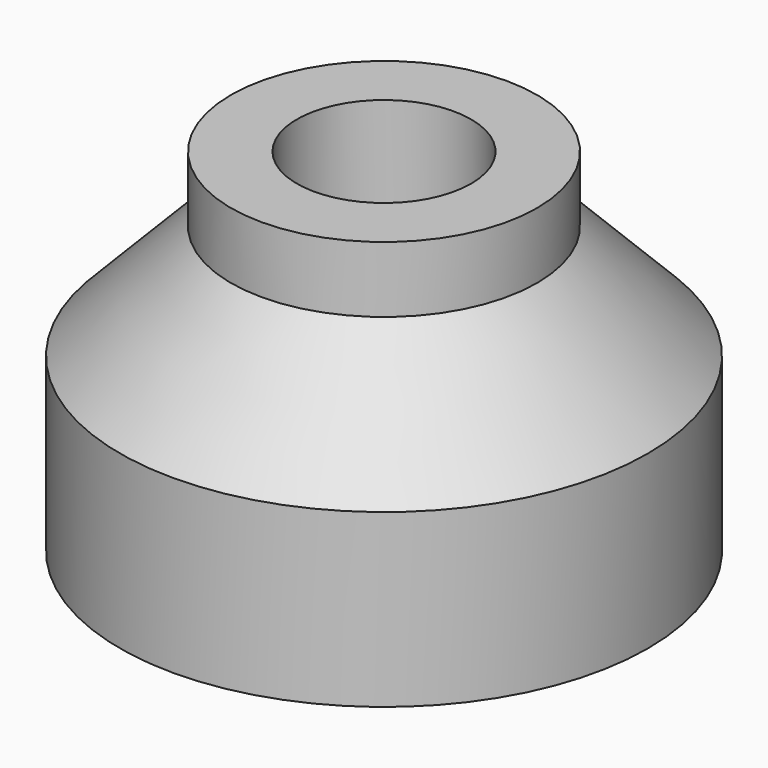
from build123d import *

# Parameters (mm, degrees)
F2_R     = 4.191
F3_DEPTH = 25.4


with BuildPart() as f1:
    # F0 (on Front) → F1 (revolve)
    with BuildSketch(Plane.XZ):
        Polygon((8.89, 6.35), (8.89, 0), (12.7, 0), (12.7, 8.255), (7.366, 13.7414), (7.366, 16.9164), (0, 16.9164), (0, 6.35), align=None)
    revolve(axis=Axis((0, 0, 11.6332), (0, 0, 1)))

    # F2 (on face) → F3 (cut)
    with BuildSketch(Plane.XY.offset(16.9164)):
        Circle(F2_R)
    extrude(amount=-F3_DEPTH, mode=Mode.SUBTRACT)


solid = f1.part
